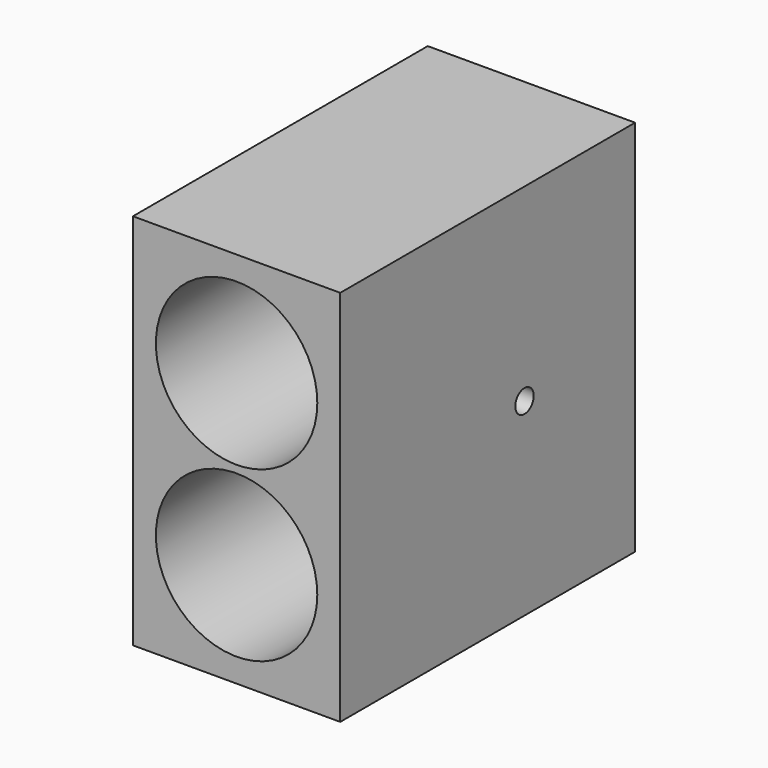
from build123d import *

# Parameters (mm, degrees)
F0_W     = 28.575
F0_H     = 52.07
F1_DEPTH = 50.8
F2_R     = 11.1252
F3_DEPTH = 50.801
F4_R     = 1.5875
F5_DEPTH = 25.4


with BuildPart() as f1:
    # F0 (on Front) → F1 (new body)
    with BuildSketch(Plane.XZ):
        Rectangle(F0_W, F0_H)
    extrude(amount=F1_DEPTH)

    # F2 (on face) → F3 (cut, through all)
    with BuildSketch(Plane.XZ.offset(50.8)):
        with Locations((0, 11.641667)):
            Circle(F2_R)
        with Locations((0, -11.641667)):
            Circle(F2_R)
    extrude(amount=-F3_DEPTH, mode=Mode.SUBTRACT)

    # F4 (on face) → F5 (cut)
    with BuildSketch(Plane.YZ.offset(14.2875)):
        with Locations((-19.05, 0)):
            Circle(F4_R)
    extrude(amount=-F5_DEPTH, mode=Mode.SUBTRACT)


solid = f1.part
